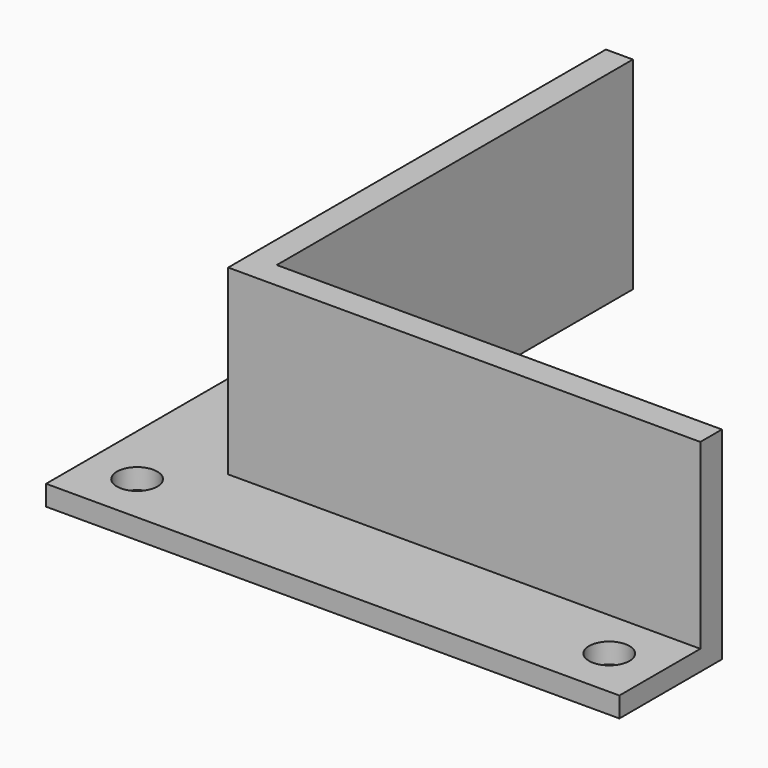
from build123d import *

# Parameters (mm, degrees)
F0_W     = 4
F0_H     = 66
F0_W_2   = 66
F0_H_2   = 4
F1_DEPTH = 30
F0_R     = 3
F2_DEPTH = 3


with BuildPart() as f1:
    # F0 (on Top) → F1 (new body)
    with BuildSketch(Plane.XY):
        with Locations((2, 37)):
            Rectangle(F0_W, F0_H)
        with Locations((37, 2)):
            Rectangle(F0_W_2, F0_H_2)
        with Locations((2, 2)):
            Rectangle(F0_W, F0_H_2)
    extrude(amount=F1_DEPTH)

    # F0 (on Top) → F2 (join)
    with BuildSketch(Plane.XY):
        Polygon((0, -15), (0, 0), (0, 4), (0, 70), (-15, 70), (-15, -15), align=None)
        with Locations((-7.5, -7.5)):
            Circle(F0_R, mode=Mode.SUBTRACT)
        with Locations((-7.5, 62.5)):
            Circle(F0_R, mode=Mode.SUBTRACT)
        Polygon((4, 0), (0, 0), (0, -15), (70, -15), (70, 0), align=None)
        with Locations((62.5, -7.5)):
            Circle(F0_R, mode=Mode.SUBTRACT)
    extrude(amount=F2_DEPTH)


solid = f1.part
